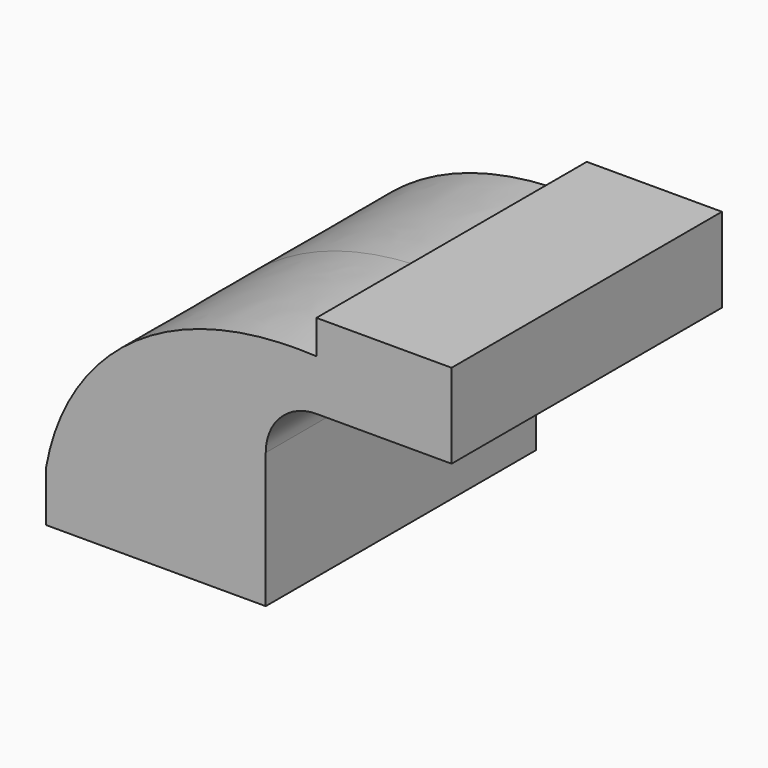
from build123d import *

# Parameters (mm, degrees)
F0_W     = 25.4
F0_H     = 31.75
F1_DEPTH = 63.5


with BuildPart() as f1:
    # F0 (on Front) → F1 (new body, symmetric)
    with BuildSketch(Plane.XZ):
        with BuildLine():
            Line((22.225, 9.525), (41.275, 9.525))
            Line((41.275, 9.525), (41.275, 41.275))
            ThreePointArc((41.275, 41.275), (46.8546158184, 54.7453841816), (60.325, 60.325))
            Line((60.325, 60.325), (60.325, 79.375))
            ThreePointArc((60.325, 79.375), (33.3842316368, 68.2157683632), (22.225, 41.275))
            Line((22.225, 41.275), (22.225, 9.525))
        make_face()
        with BuildLine():
            add(Edge.make_bspline(
                [(-41.275, 9.525), (-34.4378836453, 48.6293248832), (0, 82.3103263974), (60.325, 79.375)],
                knots=[0, 0, 0, 0, 123.2946977773, 123.2946977773, 123.2946977773, 123.2946977773], degree=3))
            Line((-41.275, 9.525), (22.225, 9.525))
            Line((22.225, 9.525), (22.225, 41.275))
            ThreePointArc((22.225, 41.275), (33.3842316368, 68.2157683632), (60.325, 79.375))
        make_face()
        Polygon((60.325, 92.075), (60.325, 79.375), (60.325, 60.325), (85.725, 60.325), (85.725, 92.075), align=None)
        with Locations((98.425, 76.2)):
            Rectangle(F0_W, F0_H)
        Polygon((-41.275, 9.525), (-41.275, -9.525), (41.275, -9.525), (41.275, 9.525), (22.225, 9.525), align=None)
    extrude(amount=F1_DEPTH, both=True)


solid = f1.part
